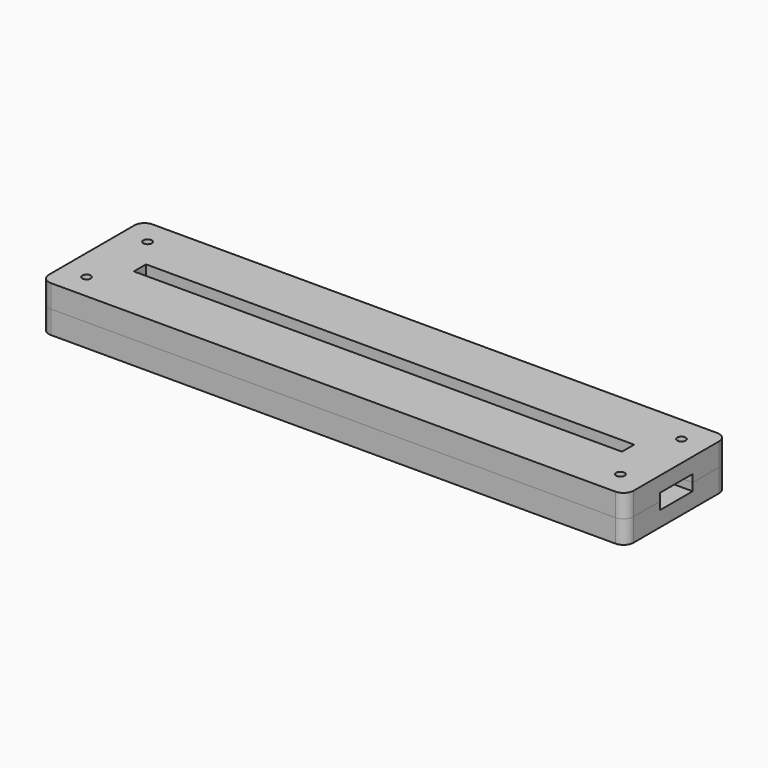
from build123d import *

# Parameters (mm, degrees)
BOX_BOTTOM_HALF_0_W     = 117
BOX_BOTTOM_HALF_0_H     = 27
BOX_BOTTOM_HALF_0_DEPTH = 5.5
SKETCH_W                = 115
SKETCH_H                = 25
PAD_DEPTH               = 3
PAD001_DEPTH            = 3
SKETCH002_W             = 115
SKETCH002_H             = 25
SKETCH002_W_2           = 96
SKETCH002_H_2           = 3
PAD002_DEPTH            = 3
SKETCH003_R             = 0.825
POCKET_DEPTH            = 245.060315
POLARPATTERN_COUNT      = 2
POLARPATTERN001_COUNT   = 2
POLARPATTERN002_COUNT   = 2
FILLET_R                = 2


with BuildPart() as box_bottom_half_0_body:
    # box_bottom_half_0 → box_bottom_half_0 (new body)
    with BuildSketch(Plane(origin=(-58.5, -13.5, -1), x_dir=(1, 0, 0), z_dir=(0, 0, 1))):
        with Locations((58.5, 13.5)):
            Rectangle(BOX_BOTTOM_HALF_0_W, BOX_BOTTOM_HALF_0_H)
    extrude(amount=BOX_BOTTOM_HALF_0_DEPTH)


with BuildPart() as body:
    # Sketch → Pad (new body)
    with BuildSketch(Plane.XY):
        Rectangle(SKETCH_W, SKETCH_H)
    extrude(amount=PAD_DEPTH)

    # Sketch001 (on Face6 of Pad) → Pad001 (join)
    with BuildSketch(Plane.XY.offset(3)):
        Polygon((-57.5, 12.5), (57.5, 12.5), (57.5, 4), (50, 4), (50, 5), (-50, 5), (-50, 4), (-57.5, 4), align=None)
        Polygon((-57.5, -12.5), (57.5, -12.5), (57.5, -4), (50, -4), (50, -5), (-50, -5), (-50, -4), (-57.5, -4), align=None)
    extrude(amount=PAD001_DEPTH)

    # Sketch002 (on Face12 of Pad001) → Pad002 (join)
    with BuildSketch(Plane.XY.offset(6)):
        Rectangle(SKETCH002_W, SKETCH002_H)
        Rectangle(SKETCH002_W_2, SKETCH002_H_2, mode=Mode.SUBTRACT)
    extrude(amount=PAD002_DEPTH)

    # Sketch003 (on Face26 of Pad002) → Pocket (cut, through all)
    with BuildSketch(Plane.XY.offset(9)):
        with Locations((-52.5, 7.5)):
            Circle(SKETCH003_R)
    pocket = extrude(amount=-POCKET_DEPTH, mode=Mode.SUBTRACT)

    # PolarPattern: Pocket ×2 about axis
    polarpattern_axis = Axis((0, 0, 0), (0, 1, 0))
    for i in range(1, POLARPATTERN_COUNT):
        add(pocket.rotate(polarpattern_axis, i * 360 / POLARPATTERN_COUNT), mode=Mode.SUBTRACT)

    # PolarPattern001: Pocket ×2 about axis
    polarpattern001_axis = Axis((0, 0, 0), (1, 0, 0))
    for i in range(1, POLARPATTERN001_COUNT):
        add(pocket.rotate(polarpattern001_axis, i * 360 / POLARPATTERN001_COUNT), mode=Mode.SUBTRACT)

    # PolarPattern002: Pocket ×2 about axis
    polarpattern002_axis = Axis((0, 0, 9), (0, 0, 1))
    for i in range(1, POLARPATTERN002_COUNT):
        add(pocket.rotate(polarpattern002_axis, i * 360 / POLARPATTERN002_COUNT), mode=Mode.SUBTRACT)

    # Fillet
    fillet_edges = [body.edges().sort_by_distance(p)[0] for p in [
        (57.5, 12.5, 7.5),
        (57.5, 12.5, 4.5),
        (57.5, 12.5, 1.5),
        (57.5, -12.5, 7.5),
        (-57.5, 12.5, 7.5),
        (-57.5, -12.5, 7.5),
    ]]
    fillet(fillet_edges, radius=FILLET_R)


with BuildPart() as bottom_half_0_body:
    # bottom_half_0 base: copy of Body
    add(body.part)

    # bottom_half_0: intersect box_bottom_half_0 body
    add(box_bottom_half_0_body.part, mode=Mode.INTERSECT)


with BuildPart() as top_half_0_body:
    # top_half_0 base: copy of Body
    add(body.part)

    # top_half_0: cut box_bottom_half_0 body
    add(box_bottom_half_0_body.part, mode=Mode.SUBTRACT)


solid = Compound([bottom_half_0_body.part, top_half_0_body.part])
